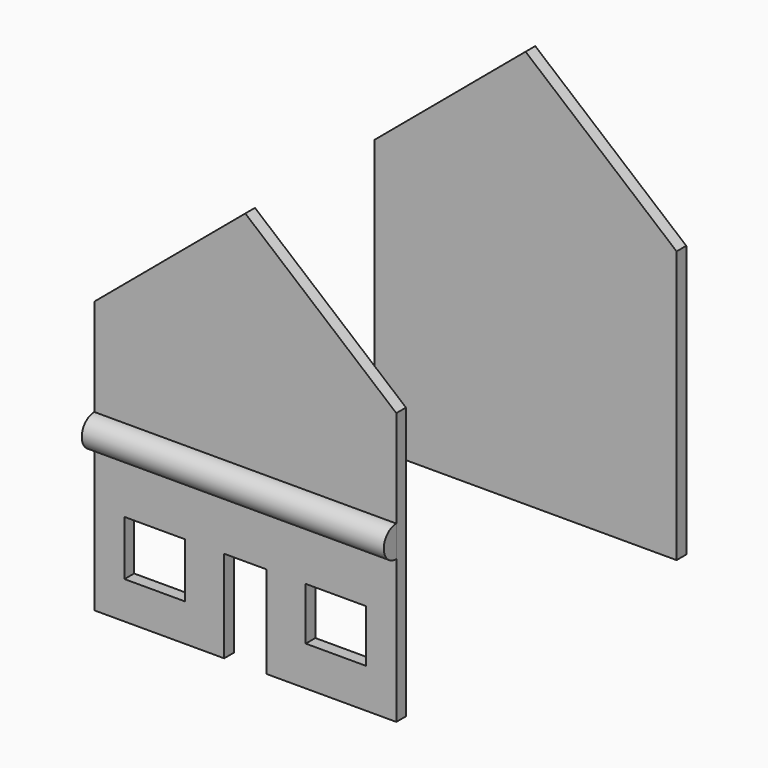
from build123d import *

# Parameters (mm, degrees)
F6_DEPTH  = 2
F7_DEPTH  = 2
F8_W      = 10
F8_H      = 9.058821
F8_W_2    = 7
F8_H_2    = 15.243576
F8_H_3    = 8.705881
F9_DEPTH  = 25
F11_DEPTH = 50


with BuildPart() as f6:
    # F1 (on Front) → F6 (new body, through all)
    with BuildSketch(Plane.XZ):
        Polygon((-50, 0), (0, 0), (0, 45), (-25, 65.977491), (-50, 45), align=None)
    extrude(amount=-F6_DEPTH)

    # F8 (on Front) → F9 (cut)
    with BuildSketch(Plane.XZ):
        with Locations((-40, 10.714166)):
            Rectangle(F8_W, F8_H)
        with Locations((-25, 7.621788)):
            Rectangle(F8_W_2, F8_H_2)
        with Locations((-10, 10.890635)):
            Rectangle(F8_W, F8_H_3)
    extrude(amount=-F9_DEPTH, mode=Mode.SUBTRACT)


with BuildPart() as f7:
    # F5 (on plane+point) → F7 (new body, through all)
    with BuildSketch(Plane.XZ.offset(-60)):
        Polygon((-50, 0), (0, 0), (0, 45), (-25, 65.977491), (-50, 45), align=None)
    extrude(amount=F7_DEPTH)


with BuildPart() as f11:
    # F10 (on Right) → F11 (new body, through all)
    with BuildSketch(Plane.YZ):
        with BuildLine():
            Line((0, 23.720346), (0, 28.913788))
            ThreePointArc((0, 28.913788), (-2.596721, 26.317067), (0, 23.720346))
        make_face()
        with BuildLine():
            Line((0, 23.720346), (0, 28.913788))
            ThreePointArc((0, 28.913788), (-2.596721, 26.317067), (0, 23.720346))
        make_face()
    extrude(amount=-F11_DEPTH)


solid = Compound([f6.part, f7.part, f11.part])
